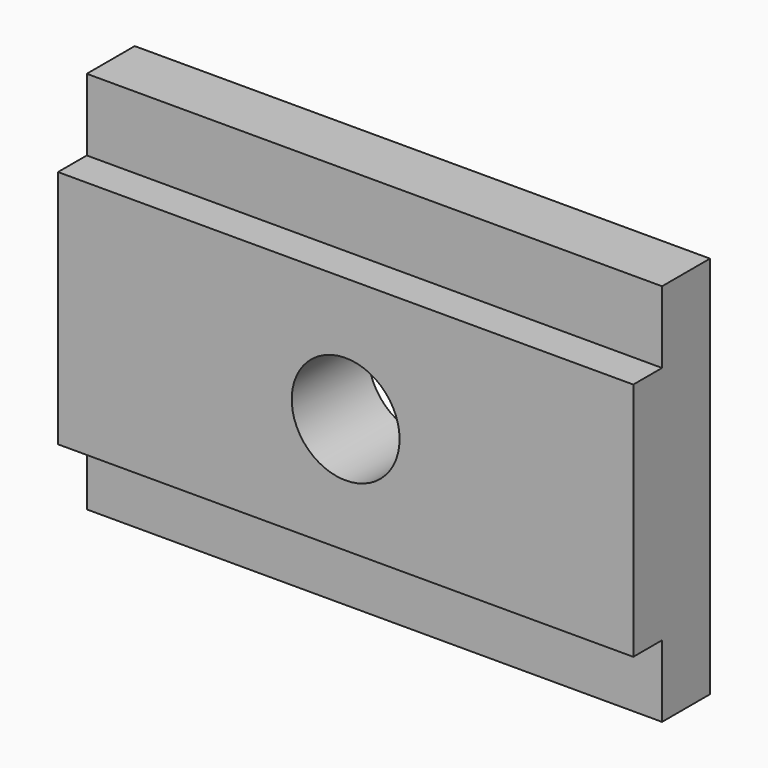
from build123d import *

# Parameters (mm, degrees)
F0_R     = 14.2875
F0_W     = 152.4
F0_H     = 19.05
F1_DEPTH = 15.875
F2_DEPTH = 25.4


with BuildPart() as f1:
    # F0 (on Front) → F1 (new body)
    with BuildSketch(Plane.XZ):
        Polygon((-9.553027, 51.909848), (-85.753027, 51.909848), (-85.753027, 32.859848), (66.646973, 32.859848), (66.646973, 51.909848), align=None)
        Polygon((66.646973, 32.859848), (-85.753027, 32.859848), (-85.753027, -30.640152), (66.646973, -30.640152), (66.646973, 0), align=None)
        with Locations((-9.553027, 0)):
            Circle(F0_R, mode=Mode.SUBTRACT)
        with Locations((-9.553027, -40.165152)):
            Rectangle(F0_W, F0_H)
    extrude(amount=F1_DEPTH)

    # F0 (on Front) → F2 (join)
    with BuildSketch(Plane.XZ):
        Polygon((66.646973, 32.859848), (-85.753027, 32.859848), (-85.753027, -30.640152), (66.646973, -30.640152), (66.646973, 0), align=None)
        with Locations((-9.553027, 0)):
            Circle(F0_R, mode=Mode.SUBTRACT)
    extrude(amount=F2_DEPTH)


solid = f1.part
